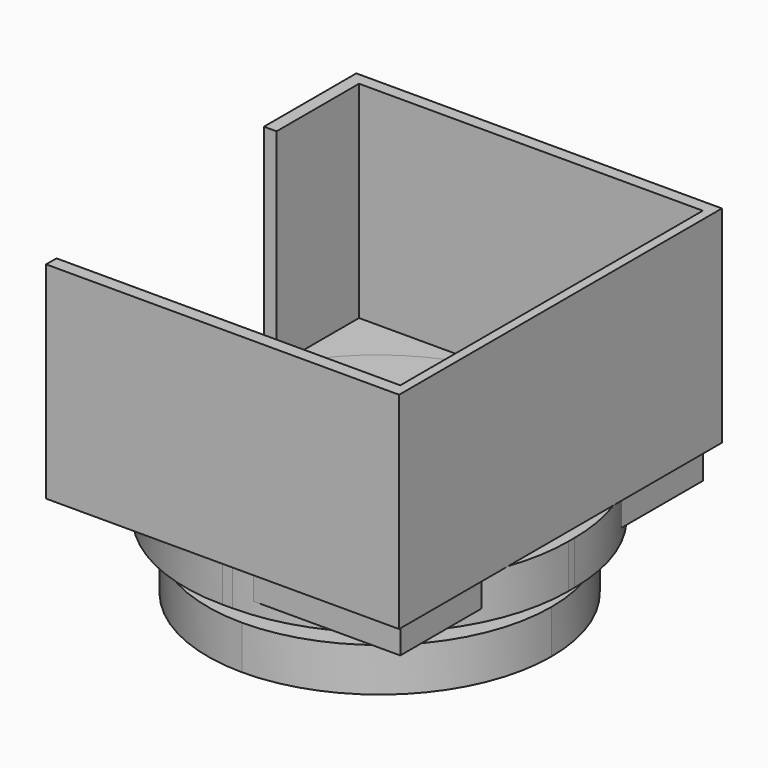
from build123d import *

# Parameters (mm, degrees)
F0_R     = 2.6714797436
F0_R_2   = 0.5
F1_DEPTH = 2.54
F3_DEPTH = 1.27
F4_W     = 22.3138332367
F4_H     = 22.1251994371
F4_R     = 1.2496784329
F5_DEPTH = 2.5495402515
F6_R     = 10.8571928441
F8_DEPTH = 12
F9_DEPTH = 1.83495


with BuildPart() as f1:
    # F0 (on Top) → F1 (new body)
    with BuildSketch(Plane.XY):
        with BuildLine():
            ThreePointArc((0, -10), (7.0710678119, -7.0710678119), (10, 0))
            ThreePointArc((10, 0), (7.0710678119, 7.0710678119), (0, 10))
            ThreePointArc((0, 10), (-7.0710678119, 7.0710678119), (-10, 0))
            ThreePointArc((-10, 0), (-7.0710678119, -7.0710678119), (0, -10))
        make_face()
        with BuildLine():
            ThreePointArc((0.5, -7.46), (0.3535533906, -7.8135533906), (0, -7.96))
            ThreePointArc((0, -7.96), (-0.3535533906, -7.1064466094), (0.5, -7.46))
        make_face(mode=Mode.SUBTRACT)
        with BuildLine():
            ThreePointArc((-6.96, 0), (-7.46, -0.5), (-7.96, 0))
            ThreePointArc((-7.96, 0), (-7.46, 0.5), (-6.96, 0))
        make_face(mode=Mode.SUBTRACT)
        Circle(F0_R, mode=Mode.SUBTRACT)
        with Locations((7.46, 0)):
            Circle(F0_R_2, mode=Mode.SUBTRACT)
        with BuildLine():
            ThreePointArc((0.5, 7.46), (-0.3535533906, 7.1064466094), (0, 7.96))
            ThreePointArc((0, 7.96), (0.3535533906, 7.8135533906), (0.5, 7.46))
        make_face(mode=Mode.SUBTRACT)
    extrude(amount=F1_DEPTH)

    # F2 (on face) → F3 (join)
    with BuildSketch(Plane.XY.offset(2.54)):
        with BuildLine():
            Line((-6.1897560954, 0), (-2.6714797436, 0))
            ThreePointArc((-2.6714797436, 0), (-1.8890214425, 1.8890214425), (0, 2.6714797436))
            Line((0, 2.6714797436), (0, 6.2129776925))
            Line((0, 6.2129776925), (-6.1897560954, 6.2129776925))
            Line((-6.1897560954, 6.2129776925), (-6.1897560954, 0))
        make_face()
        with BuildLine():
            Line((0, 6.2129776925), (0, 2.6714797436))
            ThreePointArc((0, 2.6714797436), (1.8890214425, 1.8890214425), (2.6714797436, 0))
            Line((2.6714797436, 0), (6.2083564699, 0))
            Line((6.2083564699, 0), (6.2083564699, 6.2503200024))
            Line((6.2083564699, 6.2503200024), (0, 6.2503200024))
            Line((0, 6.2503200024), (0, 6.2129776925))
        make_face()
        with BuildLine():
            ThreePointArc((0, -2.6714797436), (-1.8890214425, -1.8890214425), (-2.6714797436, 0))
            Line((-2.6714797436, 0), (-6.1897560954, 0))
            Line((-6.1897560954, 0), (-6.1897560954, -5.9984177351))
            Line((-6.1897560954, -5.9984177351), (0, -5.9984177351))
            Line((0, -5.9984177351), (0, -5.9610754251))
            Line((0, -5.9610754251), (0, -2.6714797436))
        make_face()
        with BuildLine():
            ThreePointArc((2.6714797436, 0), (1.8890214425, -1.8890214425), (0, -2.6714797436))
            Line((0, -2.6714797436), (0, -5.9610754251))
            Line((0, -5.9610754251), (6.2083564699, -5.9610754251))
            Line((6.2083564699, -5.9610754251), (6.2083564699, 0))
            Line((6.2083564699, 0), (2.6714797436, 0))
        make_face()
        with BuildLine():
            Line((2.6714797436, 0), (0, 0))
            Line((0, 0), (0, -2.6714797436))
            ThreePointArc((0, -2.6714797436), (1.8890214425, -1.8890214425), (2.6714797436, 0))
        make_face()
        with BuildLine():
            Line((0, -2.6714797436), (0, 0))
            Line((0, 0), (-2.6714797436, 0))
            ThreePointArc((-2.6714797436, 0), (-1.8890214425, -1.8890214425), (0, -2.6714797436))
        make_face()
        with BuildLine():
            Line((-2.6714797436, 0), (0, 0))
            Line((0, 0), (0, 2.6714797436))
            ThreePointArc((0, 2.6714797436), (-1.8890214425, 1.8890214425), (-2.6714797436, 0))
        make_face()
        with BuildLine():
            Line((0, 2.6714797436), (0, 0))
            Line((0, 0), (2.6714797436, 0))
            ThreePointArc((2.6714797436, 0), (1.8890214425, 1.8890214425), (0, 2.6714797436))
        make_face()
    extrude(amount=F3_DEPTH)

    # F4 (on face) → F5 (join)
    with BuildSketch(Plane.XY.offset(3.81)):
        Rectangle(F4_W, F4_H)
        with BuildLine():
            ThreePointArc((1.4647059143, -7.4631236494), (-1.0357034844, -8.4988271338), (0, -5.9984177351))
            ThreePointArc((0, -5.9984177351), (1.0357034844, -6.4274201649), (1.4647059143, -7.4631236494))
        make_face(mode=Mode.SUBTRACT)
        with Locations((-7.4394345284, 0)):
            Circle(F4_R, mode=Mode.SUBTRACT)
        Polygon((-6.1897560954, -5.9984177351), (-6.1897560954, 0), (-6.1897560954, 6.2129776925), (0, 6.2129776925), (0, 6.2503200024), (6.2083564699, 6.2503200024), (6.2083564699, 0), (6.2083564699, -5.9610754251), (0, -5.9610754251), (0, -5.9984177351), align=None, mode=Mode.SUBTRACT)
        with BuildLine():
            ThreePointArc((8.763005957, 0), (7.4856812134, -1.2773247436), (6.2083564699, 0))
            ThreePointArc((6.2083564699, 0), (7.4856812134, 1.2773247436), (8.763005957, 0))
        make_face(mode=Mode.SUBTRACT)
        with BuildLine():
            ThreePointArc((1.1621620506, 7.412482053), (0.8217726668, 6.5907093862), (0, 6.2503200024))
            ThreePointArc((0, 6.2503200024), (-0.8217726668, 8.2342547199), (1.1621620506, 7.412482053))
        make_face(mode=Mode.SUBTRACT)
        Polygon((-6.1897560954, 6.2129776925), (-6.1897560954, 0), (-6.1897560954, -5.9984177351), (0, -5.9984177351), (0, -5.9610754251), (6.2083564699, -5.9610754251), (6.2083564699, 0), (6.2083564699, 6.2503200024), (0, 6.2503200024), (0, 6.2129776925), align=None)
    extrude(amount=F5_DEPTH)

    # F6
    f6_edges = [f1.edges().sort_by_distance(p)[0] for p in [
        (-11.156917, -11.0626, 5.08477),
        (11.156917, -11.0626, 5.08477),
        (11.156917, 11.0626, 5.08477),
        (-11.156917, 11.0626, 5.08477),
    ]]
    fillet(f6_edges, radius=F6_R)

    # F7 (on face) → F8 (join)
    with BuildSketch(Plane.XY.offset(6.3595402515)):
        Polygon((-10, 11), (10, 11), (10, -11), (-10, -11), (-10, -11.7575069889), (10.5367284268, -11.7575069889), (10.5367284268, 11.7169851437), (-10.7332030311, 11.7169851437), (-10.7332030311, 5), (-10, 5), align=None)
    extrude(amount=F8_DEPTH)


with BuildPart() as f9:
    # F7 (on face) → F9 (new body)
    with BuildSketch(Plane.XY.offset(6.3595402515)):
        with BuildLine():
            Line((10, 5.0822170613), (10, 11))
            Line((10, 11), (1.4639384058, 11))
            ThreePointArc((1.4639384058, 11), (6.4855405452, 9.1280918588), (10, 5.0822170613))
        make_face()
    extrude(amount=-F9_DEPTH)


with BuildPart() as f9b:
    # F7 (on face) → F9, piece 2 (new body)
    with BuildSketch(Plane.XY.offset(6.3595402515)):
        with BuildLine():
            Line((10, -11), (10, -5.0822170613))
            ThreePointArc((10, -5.0822170613), (6.4855405452, -9.1280918588), (1.4639384058, -11))
            Line((1.4639384058, -11), (10, -11))
        make_face()
    extrude(amount=-F9_DEPTH)


with BuildPart() as f9c:
    # F7 (on face) → F9, piece 3 (new body)
    with BuildSketch(Plane.XY.offset(6.3595402515)):
        with BuildLine():
            ThreePointArc((-10, 5.0822170613), (-6.4855405452, 9.1280918588), (-1.4639384058, 11))
            Line((-1.4639384058, 11), (-10, 11))
            Line((-10, 11), (-10, 5.0822170613))
        make_face()
    extrude(amount=-F9_DEPTH)


solid = Compound([f1.part, f9.part, f9b.part, f9c.part])
